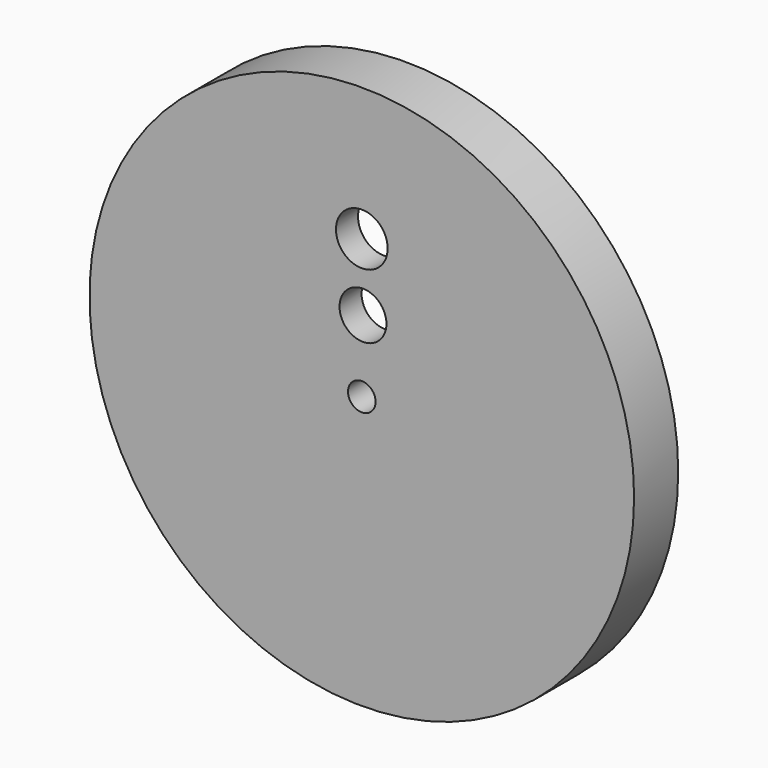
from build123d import *

# Parameters (mm, degrees)
F0_R     = 62.70625
F0_W     = 82.55
F0_H     = 82.55
F1_DEPTH = 12.7
F0_R_2   = 3.175
F0_R_3   = 5.401743
F0_R_4   = 5.953125
F2_DEPTH = 12.7
F3_DEPTH = 6.35


with BuildPart() as f1:
    # F0 (on Front) → F1 (new body)
    with BuildSketch(Plane.XZ):
        Circle(F0_R)
        Rectangle(F0_W, F0_H, mode=Mode.SUBTRACT)
    extrude(amount=F1_DEPTH)

    # F0 (on Front) → F2 (join)
    with BuildSketch(Plane.XZ):
        Rectangle(F0_W, F0_H)
        Circle(F0_R_2, mode=Mode.SUBTRACT)
        with Locations((0.268197, 16.59989)):
            Circle(F0_R_3, mode=Mode.SUBTRACT)
        with Locations((0, 31.988421)):
            Circle(F0_R_4, mode=Mode.SUBTRACT)
    extrude(amount=F2_DEPTH)

    # F0 (on Front) → F3 (cut)
    with BuildSketch(Plane.XZ):
        Rectangle(F0_W, F0_H)
        Circle(F0_R_2, mode=Mode.SUBTRACT)
        with Locations((0.268197, 16.59989)):
            Circle(F0_R_3, mode=Mode.SUBTRACT)
        with Locations((0, 31.988421)):
            Circle(F0_R_4, mode=Mode.SUBTRACT)
    extrude(amount=F3_DEPTH, mode=Mode.SUBTRACT)


solid = f1.part
